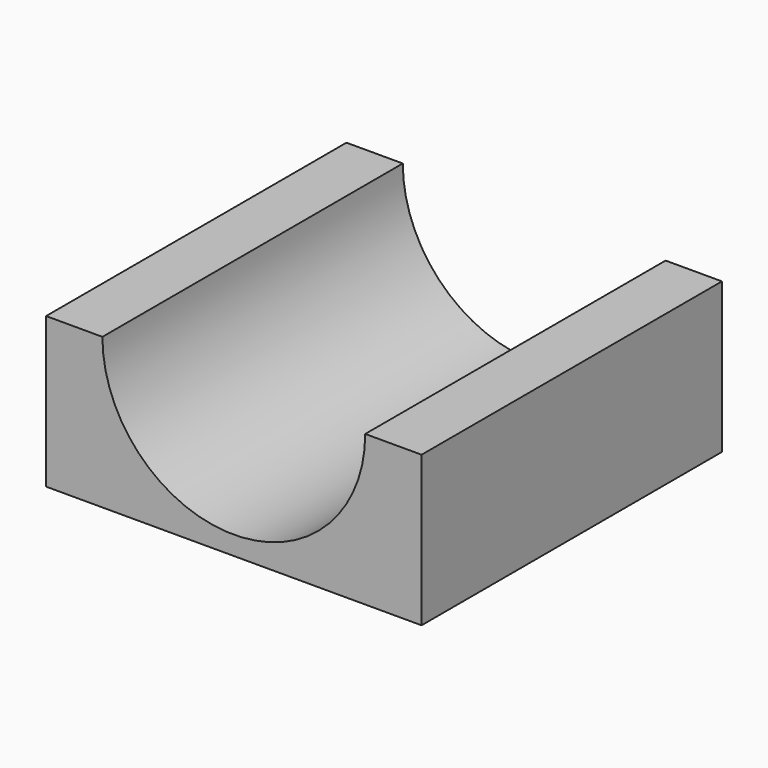
from build123d import *

# Parameters (mm, degrees)
F1_DEPTH = 50


with BuildPart() as f1:
    # F0 (on Front) → F1 (new body, symmetric)
    with BuildSketch(Plane.XZ):
        with BuildLine():
            Line((-50, 40), (-50, 0))
            Line((-50, 0), (0, 0))
            Line((0, 0), (50, 0))
            Line((50, 0), (50, 40))
            Line((50, 40), (35, 40))
            ThreePointArc((35, 40), (0, 5), (-35, 40))
            Line((-35, 40), (-50, 40))
        make_face()
    extrude(amount=F1_DEPTH, both=True)


solid = f1.part
